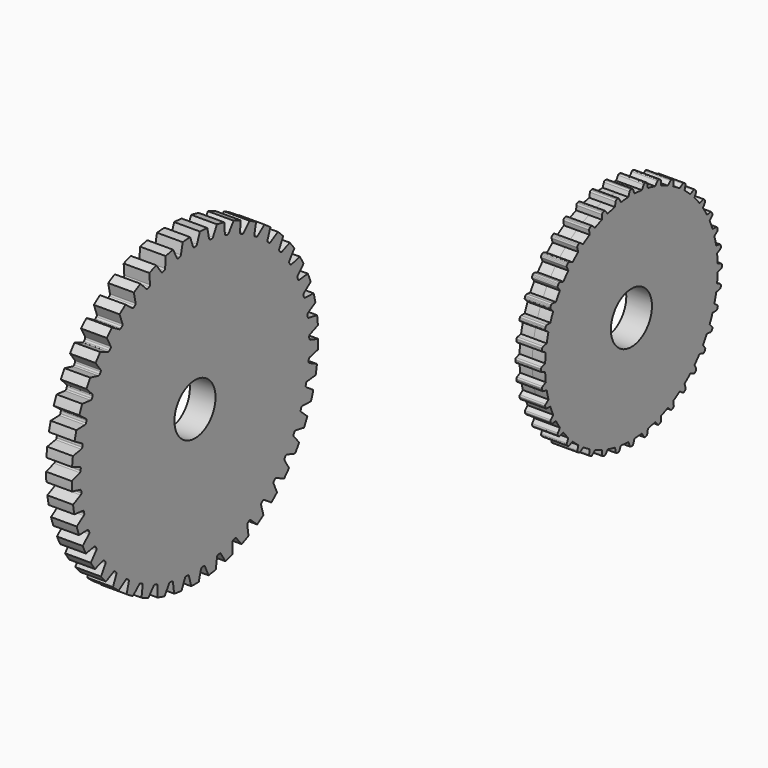
from build123d import *

# Parameters (mm, degrees)
F0_W     = 6.35
F0_H     = 31.75
F3_DEPTH = 6.35
F4_COUNT = 45
F4_ANGLE = 352
F8_DEPTH = 6.35
F9_COUNT = 40


with BuildPart() as f1:
    # F0 (on Front) → F1 (revolve)
    with BuildSketch(Plane.XZ):
        with Locations((-3.175, 22.225)):
            Rectangle(F0_W, F0_H)
    revolve(axis=Axis((-3.175, 0, 0), (1, 0, 0)))

    # F2 (on Right) → F3 (cut, symmetric)
    with BuildSketch(Plane.YZ):
        with BuildLine():
            ThreePointArc((0.2394128968, 35.3432969897), (0.2619605037, 35.343945749), (0.2844335056, 35.34588988))
            ThreePointArc((0.2844335056, 35.34588988), (0, 35.3470343003), (-0.2844335057, 35.34588988))
            ThreePointArc((-0.2844335057, 35.34588988), (-0.2619605037, 35.343945749), (-0.2394128968, 35.3432969897))
            Line((-0.2394128968, 35.3432969897), (0.2394128968, 35.3432969897))
        make_face()
        with BuildLine():
            ThreePointArc((-0.2844335057, 35.34588988), (0, 35.3470343003), (0.2844335056, 35.34588988))
            ThreePointArc((0.2844335056, 35.34588988), (0.4824358796, 35.4276798342), (0.6079087348, 35.6013205533))
            Line((0.6079087348, 35.6013205533), (1.5278118663, 38.1287336349))
            Line((1.5278118663, 38.1287336349), (0, 38.1459370255))
            Line((0, 38.1459370255), (-1.5278118663, 38.1287336349))
            Line((-1.5278118663, 38.1287336349), (-0.6079087348, 35.6013205533))
            ThreePointArc((-0.6079087348, 35.6013205533), (-0.4824358796, 35.4276798342), (-0.2844335057, 35.34588988))
        make_face()
    f3 = extrude(amount=F3_DEPTH, both=True, mode=Mode.SUBTRACT)

    # F4: F3 ×45 about axis
    f4_axis = Axis((0, 0, 0), (1, 0, 0))
    for i in range(1, F4_COUNT):
        add(f3.rotate(f4_axis, i * F4_ANGLE / (F4_COUNT - 1)), mode=Mode.SUBTRACT)


with BuildPart() as f6:
    # F5 (on Top) → F6 (revolve)
    with BuildSketch(Plane.XY):
        Polygon((38.7737038109, 109.1673338547), (35.5987038109, 109.1584047318), (35.5987038109, 88.8428810477), (38.7737038109, 88.8428810477), align=None)
        Polygon((41.9487038109, 109.1762629777), (38.7737038109, 109.1673338547), (38.7737038109, 88.8428810477), (41.9487038109, 88.8428810477), align=None)
    revolve(axis=Axis((33.552388406, 82.4928810477, 0), (-1, 0, 0)))

    # F7 (on face) → F8 (join)
    with BuildSketch(Plane.YZ.offset(41.9487038109)):
        with BuildLine():
            ThreePointArc((82.4928810477, 27.9728553361), (82.3728694663, 27.9735371308), (82.2528608914, 27.9746263955))
            ThreePointArc((82.2528608914, 27.9746263955), (82.0509894046, 27.8927569705), (81.9239558062, 27.7157904063))
            Line((81.9239558062, 27.7157904063), (81.5515312055, 26.6667720524))
            ThreePointArc((81.5515312055, 26.6667720524), (82.022132863, 26.6792291374), (82.4928810477, 26.68338193))
            Line((82.4928810477, 26.68338193), (82.4928810477, 27.9728553361))
        make_face()
        with BuildLine():
            ThreePointArc((82.7074375256, 27.972651859), (82.6001591323, 27.9725908024), (82.4928810477, 27.9728553361))
            Line((82.4928810477, 27.9728553361), (82.4928810477, 26.68338193))
            ThreePointArc((82.4928810477, 26.68338193), (82.9498480936, 26.6794687417), (83.4066811086, 26.6677303247))
            Line((83.4066811086, 26.6677303247), (83.0328652194, 27.7148180395))
            ThreePointArc((83.0328652194, 27.7148180395), (82.9070734544, 27.8903365471), (82.7074375256, 27.972651859))
        make_face()
        with BuildLine():
            Line((82.4928810477, 25.9207215561), (82.4928810477, 26.68338193))
            ThreePointArc((82.4928810477, 26.68338193), (82.022132863, 26.6792291374), (81.5515312055, 26.6667720524))
            Line((81.5515312055, 26.6667720524), (81.2866128, 25.92056928))
            Line((81.2866128, 25.92056928), (82.4928810477, 25.9207215561))
        make_face()
        with BuildLine():
            ThreePointArc((83.4066811086, 26.6677303247), (82.9498480936, 26.6794687417), (82.4928810477, 26.68338193))
            Line((82.4928810477, 26.68338193), (82.4928810477, 25.9207215561))
            Line((82.4928810477, 25.9207215561), (83.6733672163, 25.9207215561))
            Line((83.6733672163, 25.9207215561), (83.4066811086, 26.6677303247))
        make_face()
    f8 = extrude(amount=-F8_DEPTH)

    # F9: F8 ×40 about axis
    f9_axis = Axis((41.9487038109, 82.4928810477, 0), (-1, 0, 0))
    for i in range(1, F9_COUNT):
        add(f8.rotate(f9_axis, i * 360 / F9_COUNT))


solid = Compound([f1.part, f6.part])
